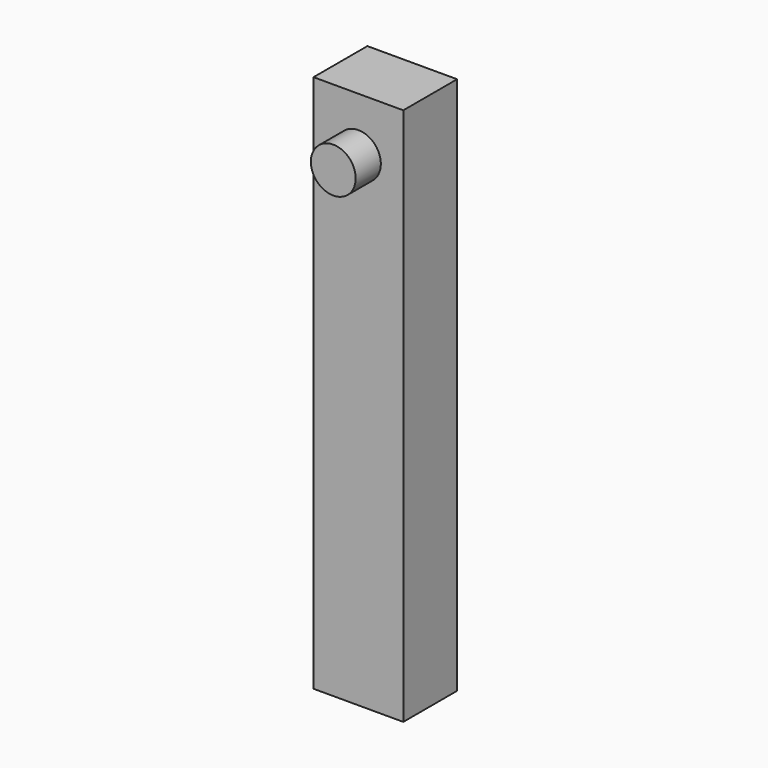
from build123d import *

# Parameters (mm, degrees)
F0_W     = 20
F0_H     = 15
F1_DEPTH = 120
F2_R     = 5
F3_DEPTH = 7


with BuildPart() as f1:
    # F0 (on Top) → F1 (new body)
    with BuildSketch(Plane.XY):
        Rectangle(F0_W, F0_H)
    extrude(amount=F1_DEPTH)

    # F2 (on face) → F3 (join)
    with BuildSketch(Plane.XZ.offset(7.5)):
        with Locations((0, 107.8676886048)):
            Circle(F2_R)
    extrude(amount=F3_DEPTH)


solid = f1.part
